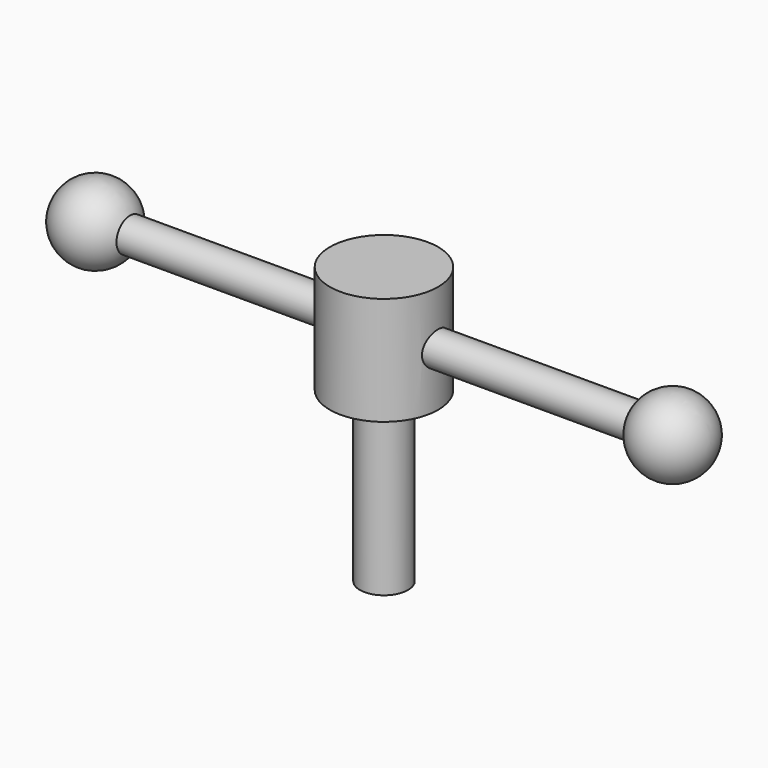
from build123d import *

# Parameters (mm, degrees)
F0_R     = 14.2875
F1_DEPTH = 14.2875
F2_R     = 6.35
F3_DEPTH = 44.45
F4_R     = 4.445
F5_DEPTH = 76.2


with BuildPart() as f1:
    # F0 (on Top) → F1 (new body, symmetric)
    with BuildSketch(Plane.XY):
        Circle(F0_R)
    extrude(amount=F1_DEPTH, both=True)

    # F2 (on face) → F3 (join)
    with BuildSketch(Plane(origin=(0, 0, -14.2875), x_dir=(1, 0, 0), z_dir=(0, 0, -1))):
        Circle(F2_R)
    extrude(amount=F3_DEPTH)

    # F4 (on Right) → F5 (join, symmetric)
    with BuildSketch(Plane.YZ):
        Circle(F4_R)
    extrude(amount=F5_DEPTH, both=True)

    # F6 (on Front) → F7 (revolve)
    with BuildSketch(Plane.XZ):
        with BuildLine():
            Line((-86.36, 0), (-66.04, 0))
            ThreePointArc((-66.04, 0), (-76.2, 10.16), (-86.36, 0))
        make_face()
    revolve(axis=Axis((-76.2, 0, 0), (1, 0, 0)))

    # F8 (on Front) → F9 (revolve)
    with BuildSketch(Plane.XZ):
        with BuildLine():
            Line((66.04, 0), (86.36, 0))
            ThreePointArc((86.36, 0), (76.2, 10.16), (66.04, 0))
        make_face()
    revolve(axis=Axis((76.2, 0, 0), (1, 0, 0)))


solid = f1.part
